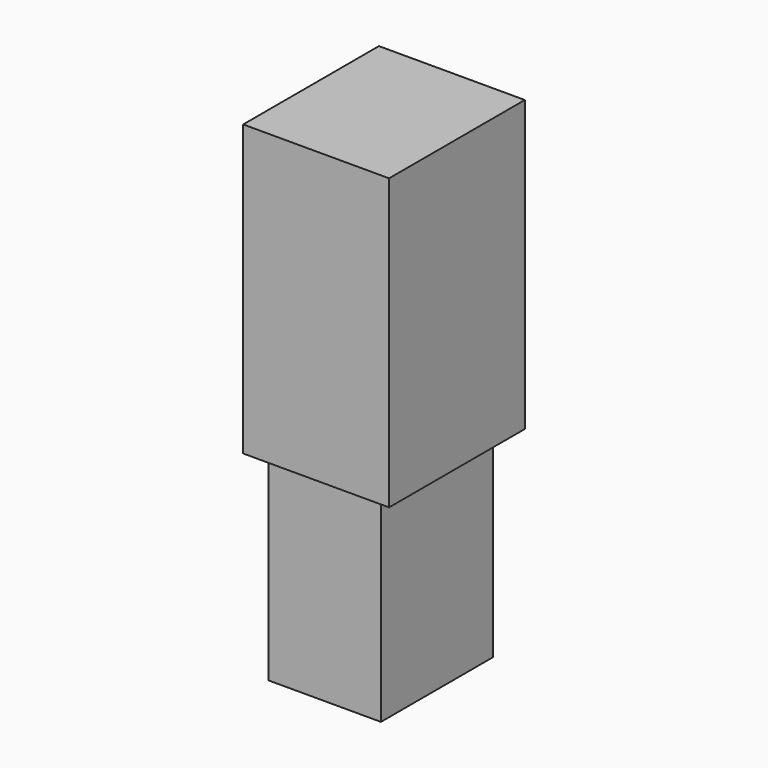
from build123d import *

# Parameters (mm, degrees)
F0_W     = 145.7732766867
F0_H     = 72.8164315224
F1_DEPTH = 169.5371419191
F2_DEPTH = 25.4
F3_DEPTH = 191.2825796753
F4_W     = 112.2992113233
F4_H     = 139.7446542978
F5_DEPTH = 489.1429543495


with BuildPart() as f1:
    # F0 (on Front) → F1 (new body)
    with BuildSketch(Plane.XZ):
        with Locations((0.2535507083, -36.4082157612)):
            Rectangle(F0_W, F0_H)
    extrude(amount=-F1_DEPTH)

    # F2 (add): a face of the model
    f2_faces = [f1.faces().sort_by_distance(p)[0] for p in [
        (0.2535507083, 84.7685709596, 0),
    ]]
    extrude(f2_faces, amount=F2_DEPTH)

    # F3 (add): a face of the model
    f3_faces = [f1.faces().sort_by_distance(p)[0] for p in [
        (0.2535507083, 84.7685709596, 25.4),
    ]]
    extrude(f3_faces, amount=F3_DEPTH)

    # F4 (on face) → F5 (join)
    with BuildSketch(Plane.XY.offset(216.6825796753)):
        with Locations((-1.0879933834, 82.2958871722)):
            Rectangle(F4_W, F4_H)
    extrude(amount=-F5_DEPTH)


solid = f1.part
